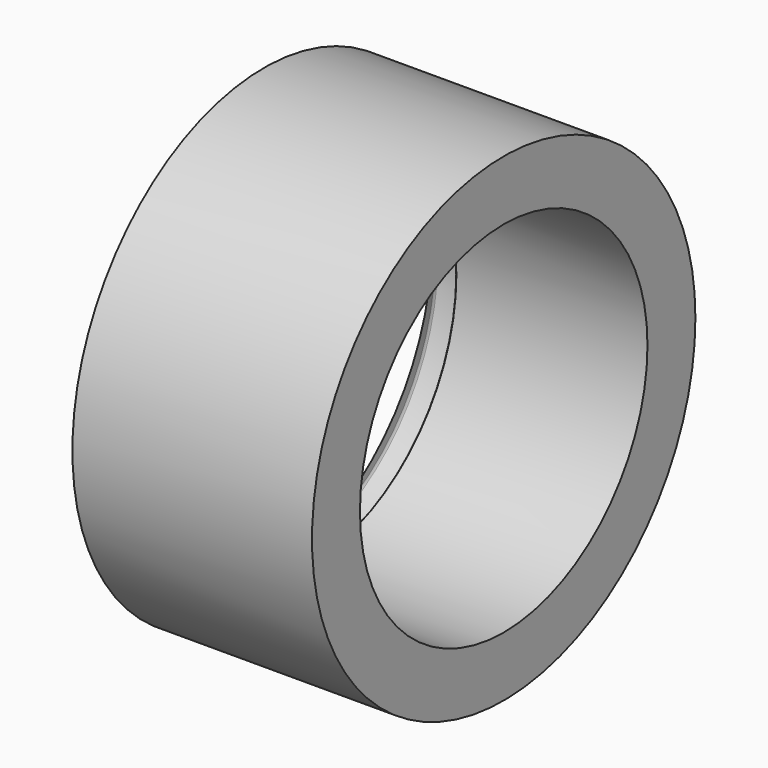
from build123d import *

# Parameters (mm, degrees)
F2_SIZE = 3
F3_R    = 1
F4_SIZE = 0.1


with BuildPart() as f1:
    # F0 (on Top) → F1 (revolve)
    with BuildSketch(Plane.XY):
        Polygon((40, 40), (0, 40), (0, 32), (8, 32), (8, 30), (40, 30), align=None)
    revolve(axis=Axis((-2.474785153, 0, 0), (1, 0, 0)))

    # F2
    f2_edges = [f1.edges().sort_by_distance(p)[0] for p in [
        (0, -32, 0),
    ]]
    chamfer(f2_edges, length=F2_SIZE)

    # F3
    f3_edges = [f1.edges().sort_by_distance(p)[0] for p in [
        (8, -32, 0),
        (3, -32, 0),
    ]]
    fillet(f3_edges, radius=F3_R)

    # F4
    f4_edges = [f1.edges().sort_by_distance(p)[0] for p in [
        (8, -30, 0),
    ]]
    chamfer(f4_edges, length=F4_SIZE)


solid = f1.part
